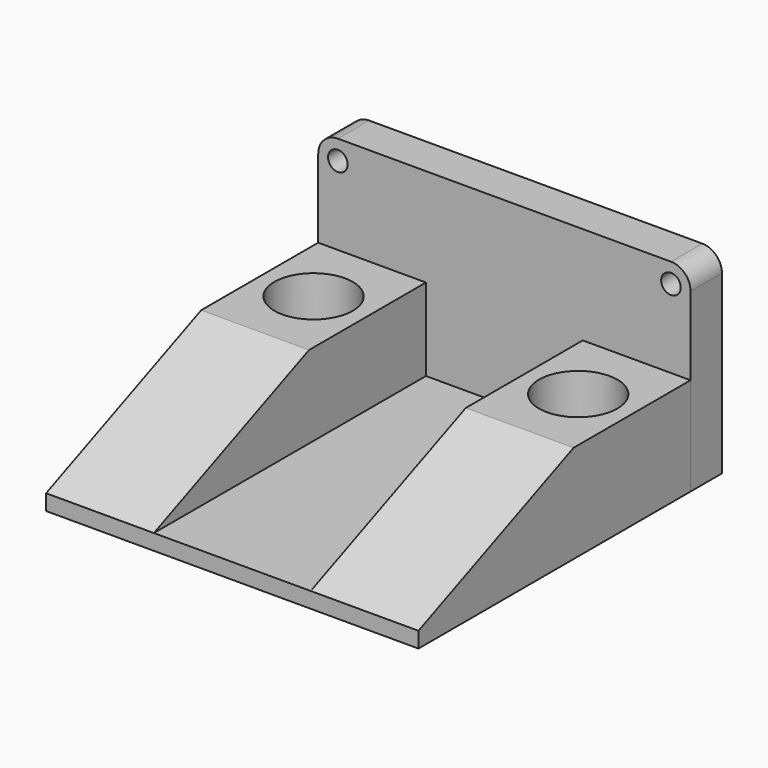
from build123d import *

# Parameters (mm, degrees)
F0_W            = 40
F0_H            = 86.76
F1_DEPTH        = 4
F2_W            = 95
F2_H            = 25
F3_DEPTH        = 27.5
F4_W            = 86.76
F4_H            = 25
F5_DEPTH        = 27.5
F6_W            = 94.977141
F6_H            = 50
F7_DEPTH        = 10
F9_R            = 5
F10_R           = 5
F11_R           = 2.5
F12_DEPTH       = 10.001
F14_DEPTH       = 95.001
F16_D           = 10
F16_CBORE_D     = 20
F16_CBORE_DEPTH = 15
F17_D           = 10
F17_CBORE_D     = 20
F17_CBORE_DEPTH = 15


with BuildPart() as f1:
    # F0 (on Top) → F1 (new body)
    with BuildSketch(Plane.XY):
        Rectangle(F0_W, F0_H)
    extrude(amount=F1_DEPTH)

    # F2 (on face) → F3 (join)
    with BuildSketch(Plane.YZ.offset(20)):
        with Locations((4.12, 12.5)):
            Rectangle(F2_W, F2_H)
    extrude(amount=F3_DEPTH)

    # F4 (on face) → F5 (join)
    with BuildSketch(Plane(origin=(-20, 0, 0), x_dir=(0, -1, 0), z_dir=(-1, 0, 0))):
        with Locations((0, 12.5)):
            Rectangle(F4_W, F4_H)
    extrude(amount=F5_DEPTH)

    # F6 (on face) → F7 (join)
    with BuildSketch(Plane(origin=(0, 43.38, 0), x_dir=(-1, 0, 0), z_dir=(0, 1, 0))):
        with Locations((-0.01143, 25)):
            Rectangle(F6_W, F6_H)
    extrude(amount=F7_DEPTH)

    # F9
    f9_edges = [f1.edges().sort_by_distance(p)[0] for p in [
        (47.5, 48.38, 50),
    ]]
    fillet(f9_edges, radius=F9_R)

    # F10
    f10_edges = [f1.edges().sort_by_distance(p)[0] for p in [
        (-47.477141, 48.38, 50),
    ]]
    fillet(f10_edges, radius=F10_R)

    # F11 (on face) → F12 (cut, through all)
    with BuildSketch(Plane.XZ.offset(-43.38)):
        with Locations((-42.477141, 45)):
            Circle(F11_R)
        with Locations((42.5, 45)):
            Circle(F11_R)
    extrude(amount=-F12_DEPTH, mode=Mode.SUBTRACT)

    # F13 (on face) → F14 (cut, through all)
    with BuildSketch(Plane(origin=(-47.5, 0, 0), x_dir=(0, -1, 0), z_dir=(-1, 0, 0))):
        Polygon((43.38, 25), (-6.08, 25), (43.38, 4), align=None)
    extrude(amount=-F14_DEPTH, mode=Mode.SUBTRACT)

    # F16 (through all)
    with Locations(Plane.XY.offset(25)):
        with Locations((-33.75, 24.73)):
            CounterBoreHole(F16_D / 2, F16_CBORE_D / 2, F16_CBORE_DEPTH)

    # F17 (through all)
    with Locations(Plane.XY.offset(25)):
        with Locations((33.75, 24.73)):
            CounterBoreHole(F17_D / 2, F17_CBORE_D / 2, F17_CBORE_DEPTH)


solid = f1.part
